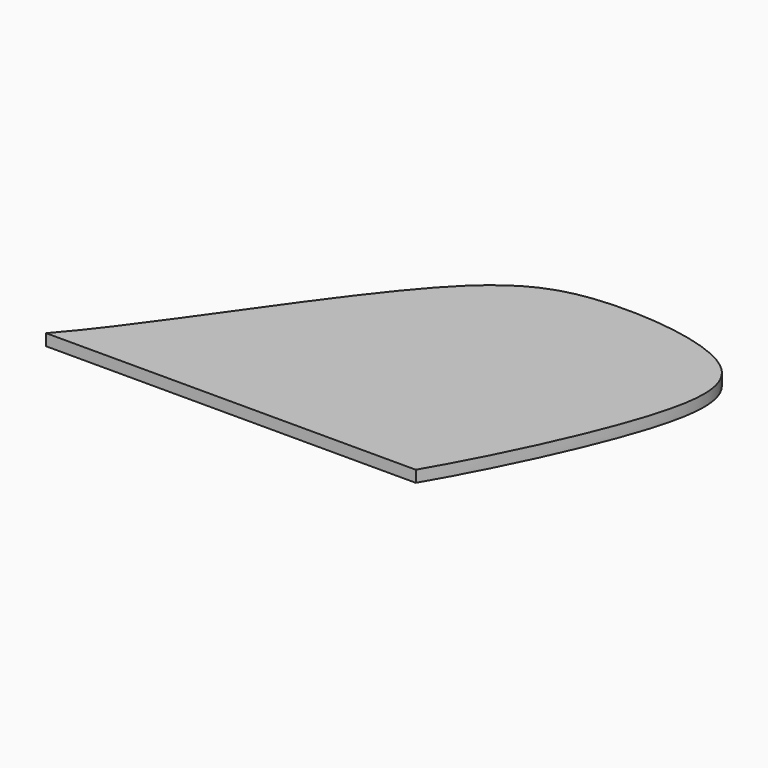
from build123d import *

# Parameters (mm, degrees)
F1_DEPTH = 19.05


with BuildPart() as f1:
    # F0 (on Top) → F1 (new body)
    with BuildSketch(Plane.XY):
        with BuildLine():
            add(Edge.make_bspline(
                [(-51.9697964191, 37.7294868231), (42.4862117344, 144.1346588404), (254.5211774744, 495.5199190155), (439.522597988, 572.44224558), (724.1154293288, 535.248021834), (719.4535572763, 348.2471873707), (604.4195694642, 117.0834290402), (557.6302035809, 37.7294868231)],
                knots=[0, 0, 0, 0, 0.2768171434, 0.4485063347, 0.6304907947, 0.775839267, 1, 1, 1, 1], degree=3))
            Line((-51.9697964191, 37.7294868231), (557.6302035809, 37.7294868231))
        make_face()
    extrude(amount=F1_DEPTH)


solid = f1.part
